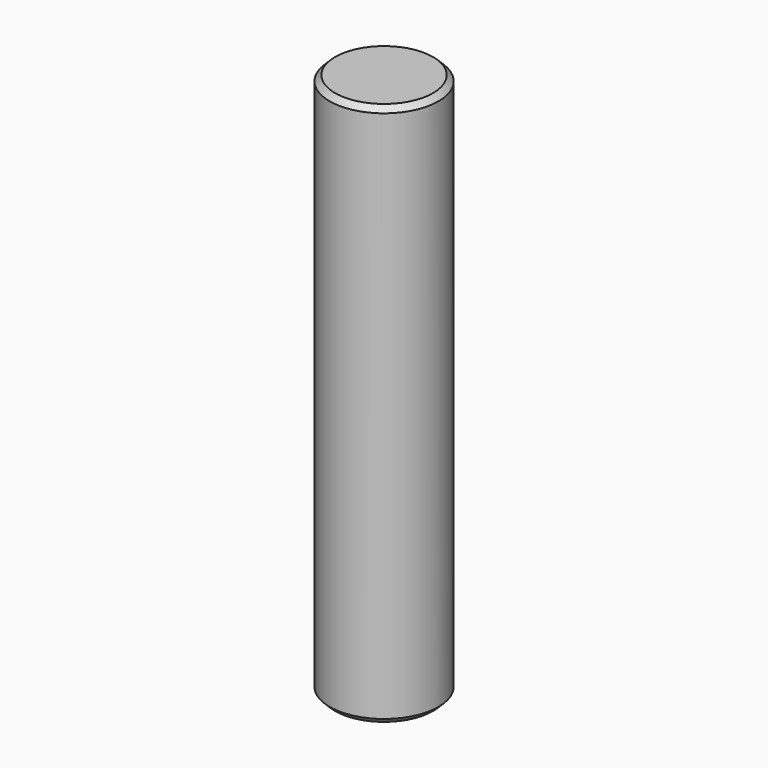
from build123d import *

# Parameters (mm, degrees)
F0_R     = 10
F1_DEPTH = 100
F2_SIZE  = 1
F3_SIZE  = 1


with BuildPart() as f1:
    # F0 (on Top) → F1 (new body)
    with BuildSketch(Plane.XY):
        with Locations((-11.811228, 7.31832)):
            Circle(F0_R)
    extrude(amount=F1_DEPTH)

    # F2
    f2_edges = [f1.edges().sort_by_distance(p)[0] for p in [
        (-21.811228, 7.31832, 100),
    ]]
    chamfer(f2_edges, length=F2_SIZE)

    # F3
    f3_edges = [f1.edges().sort_by_distance(p)[0] for p in [
        (-21.811228, 7.31832, 0),
    ]]
    chamfer(f3_edges, length=F3_SIZE)


solid = f1.part
